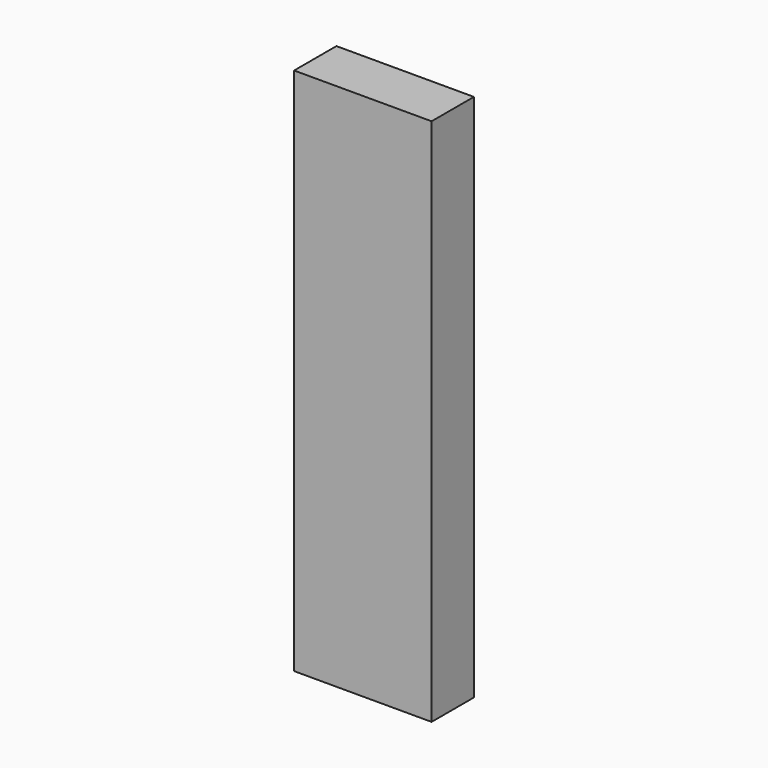
from build123d import *

# Parameters (mm, degrees)
F1_DEPTH = 98
F2_W     = 26
F2_H     = 10
F3_DEPTH = 2
F4_W     = 22
F4_H     = 2
F5_DEPTH = 8


with BuildPart() as f1:
    # F0 (on Top) → F1 (new body)
    with BuildSketch(Plane.XY):
        Polygon((2, 0), (0, 0), (0, -10), (26, -10), (26, 0), (24, 0), (24, -8), (2, -8), align=None)
    extrude(amount=F1_DEPTH)

    # F2 (on face) → F3 (join)
    with BuildSketch(Plane.XY.offset(98)):
        with Locations((13, -5)):
            Rectangle(F2_W, F2_H)
    extrude(amount=F3_DEPTH)

    # F4 (on face) → F5 (join, through all)
    with BuildSketch(Plane(origin=(0, -8, 0), x_dir=(-1, 0, 0), z_dir=(0, 1, 0))):
        with Locations((-13, 65)):
            Rectangle(F4_W, F4_H)
        with Locations((-13, 31)):
            Rectangle(F4_W, F4_H)
    extrude(amount=F5_DEPTH)


solid = f1.part
